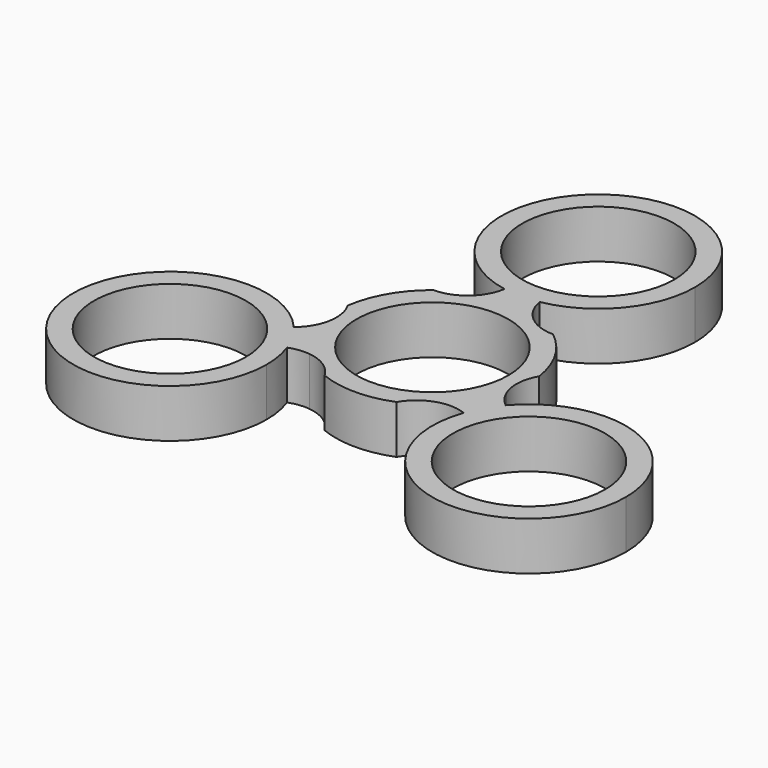
from build123d import *

# Parameters (mm, degrees)
F0_R     = 11
F1_DEPTH = 7


with BuildPart() as f1:
    # F0 (on Top) → F1 (new body)
    with BuildSketch(Plane.XY):
        with BuildLine():
            Line((14.05794, -8.116355), (15.328937, -5.914923))
            ThreePointArc((15.328937, -5.914923), (13.856406, -8), (12.786942, -10.317787))
            Line((12.786942, -10.317787), (14.05794, -8.116355))
        make_face()
        with BuildLine():
            ThreePointArc((39.980762, -15), (30.821963, -1.863685), (15.328937, -5.914923))
            Line((15.328937, -5.914923), (14.05794, -8.116355))
            Line((14.05794, -8.116355), (12.786942, -10.317787))
            ThreePointArc((12.786942, -10.317787), (23.605207, -28.796983), (39.980762, -15))
        make_face()
        with Locations((25.980762, -15)):
            Circle(F0_R, mode=Mode.SUBTRACT)
        with BuildLine():
            ThreePointArc((2.541994, 16.23271), (0, 16), (-2.541994, 16.23271))
            ThreePointArc((-2.541994, 16.23271), (-2.9479, 14.800569), (-3.683807, 13.506649))
            ThreePointArc((-3.683807, 13.506649), (-5.874203, 11.662049), (-8.660254, 11))
            ThreePointArc((-8.660254, 11), (-12.124356, 7), (-13.856406, 2))
            ThreePointArc((-13.856406, 2), (-13.131153, -2.22937), (-15.328937, -5.914923))
            ThreePointArc((-15.328937, -5.914923), (-13.856406, -8), (-12.786942, -10.317787))
            ThreePointArc((-12.786942, -10.317787), (-11.343719, -9.953241), (-9.855198, -9.943595))
            ThreePointArc((-9.855198, -9.943595), (-7.162529, -10.918233), (-5.196152, -13))
            ThreePointArc((-5.196152, -13), (0, -14), (5.196152, -13))
            ThreePointArc((5.196152, -13), (8.496267, -10.257227), (12.786942, -10.317787))
            ThreePointArc((12.786942, -10.317787), (13.856406, -8), (15.328937, -5.914923))
            ThreePointArc((15.328937, -5.914923), (14.291619, -4.847328), (13.539005, -3.563054))
            ThreePointArc((13.539005, -3.563054), (13.036732, -0.743815), (13.856406, 2))
            ThreePointArc((13.856406, 2), (12.124356, 7), (8.660254, 11))
            ThreePointArc((8.660254, 11), (4.634886, 12.486597), (2.541994, 16.23271))
        make_face()
        Circle(F0_R, mode=Mode.SUBTRACT)
        with BuildLine():
            ThreePointArc((-12.786942, -10.317787), (-13.856406, -8), (-15.328937, -5.914923))
            Line((-15.328937, -5.914923), (-14.05794, -8.116355))
            Line((-14.05794, -8.116355), (-12.786942, -10.317787))
        make_face()
        with BuildLine():
            Line((-14.05794, -8.116355), (-15.328937, -5.914923))
            ThreePointArc((-15.328937, -5.914923), (-39.117077, -19.8412), (-11.980762, -15))
            ThreePointArc((-11.980762, -15), (-12.183779, -12.624445), (-12.786942, -10.317787))
            Line((-12.786942, -10.317787), (-14.05794, -8.116355))
        make_face()
        with Locations((-25.980762, -15)):
            Circle(F0_R, mode=Mode.SUBTRACT)
        with BuildLine():
            ThreePointArc((2.541994, 16.23271), (10.76076, 21.044218), (14, 30))
            ThreePointArc((14, 30), (-8.955782, 40.76076), (-2.541994, 16.23271))
            Line((-2.541994, 16.23271), (0, 16.23271))
            Line((0, 16.23271), (2.541994, 16.23271))
        make_face()
        with Locations((0, 30)):
            Circle(F0_R, mode=Mode.SUBTRACT)
        with BuildLine():
            Line((0, 16.23271), (-2.541994, 16.23271))
            ThreePointArc((-2.541994, 16.23271), (0, 16), (2.541994, 16.23271))
            Line((2.541994, 16.23271), (0, 16.23271))
        make_face()
    extrude(amount=F1_DEPTH)


solid = f1.part
